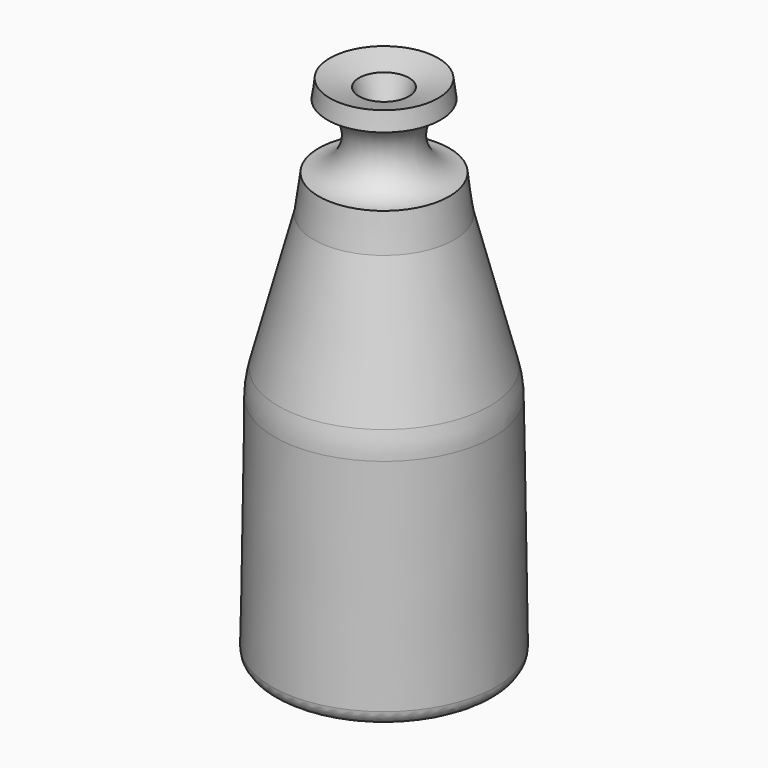
from build123d import *

# Parameters (mm, degrees)
F3_R = 2


with BuildPart() as f2:
    # F0 (on Front) → F2 (revolve)
    with BuildSketch(Plane.XZ):
        with BuildLine():
            ThreePointArc((9.531116, 34.253945), (9.763881, 33.08362), (9.853489, 31.893741))
            Line((9.853489, 31.893741), (10.31875, 0))
            Line((10.31875, 0), (15.39821, 0.074098))
            Line((15.39821, 0.074098), (14.932949, 31.967839))
            ThreePointArc((14.932949, 31.967839), (14.797148, 33.771099), (14.444393, 35.544726))
            Line((14.444393, 35.544726), (9.599652, 53.985938))
            Line((9.599652, 53.985938), (8.929592, 59.000551))
            ThreePointArc((8.929592, 59.000551), (4.539643, 62.904001), (7.750709, 67.823109))
            Line((7.750709, 67.823109), (7.415354, 70.33285))
            Line((7.415354, 70.33285), (3.415354, 69.254293))
            Line((3.415354, 69.254293), (1.5875, 63.5))
            Line((1.5875, 63.5), (3.14703, 63.920511))
            Line((3.14703, 63.920511), (4.606197, 53.000351))
            Line((4.606197, 53.000351), (9.531116, 34.253945))
        make_face()
    revolve(axis=Axis((0, 0, 42.405855), (0, 0, 1)))

    # F3
    f3_edges = [f2.edges().sort_by_distance(p)[0] for p in [
        (-15.39821, 0, 0.074098),
        (-10.31875, 0, 0),
    ]]
    fillet(f3_edges, radius=F3_R)


solid = f2.part
